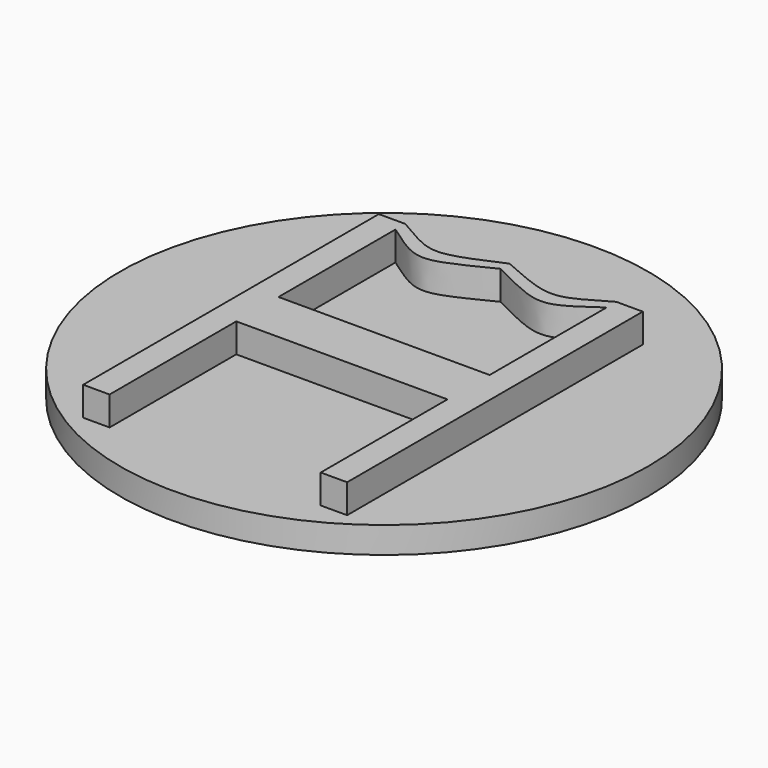
from build123d import *

# Parameters (mm, degrees)
F1_DEPTH = 0.625
F0_R     = 12.5
F0_W     = 1.25
F0_H     = 7.5
F2_DEPTH = 2


with BuildPart() as f1:
    # F0 (on Top) → F1 (new body, symmetric)
    with BuildSketch(Plane.XY):
        with BuildLine():
            Line((-5, 6.9237351418), (-5, 0))
            Line((-5, 0), (5, 0))
            Line((5, 0), (5, 6.9237351418))
            add(Edge.make_bspline(
                [(5, 6.9237351418), (2.8915624134, 5.4354998283), (2.8915624134, 5.4349666461), (0, 6.8908487447)],
                knots=[0, 0, 0, 0, 5.0001081503, 5.0001081503, 5.0001081503, 5.0001081503], degree=3))
            add(Edge.make_bspline(
                [(-5, 6.9237351418), (-2.8915624134, 5.4354998283), (-2.8915624134, 5.4349666461), (0, 6.8908487447)],
                knots=[0, 0, 0, 0, 5.0001081503, 5.0001081503, 5.0001081503, 5.0001081503], degree=3))
        make_face()
    extrude(amount=F1_DEPTH, both=True)


with BuildPart() as f1b:
    # F0 (on Top) → F1, piece 2 (new body, symmetric)
    with BuildSketch(Plane.XY):
        Circle(F0_R)
        with BuildLine():
            Line((5, -2.5), (-5, -2.5))
            Line((-5, -2.5), (-5, -10))
            Line((-5, -10), (-6.25, -10))
            Line((-6.25, -10), (-6.25, -2.5))
            Line((-6.25, -2.5), (-6.25, 0))
            Line((-6.25, 0), (-6.25, 7.5))
            Line((-6.25, 7.5), (-5, 7.5))
            add(Edge.make_bspline(
                [(-5, 7.5), (-2.8592094313, 6.2499786727), (-2.8592094313, 6.1529199593), (0, 7.4215326458)],
                knots=[0, 0, 0, 0, 5.0006156747, 5.0006156747, 5.0006156747, 5.0006156747], degree=3))
            add(Edge.make_bspline(
                [(5, 7.5), (2.8592094313, 6.2499786727), (2.8592094313, 6.1529199593), (0, 7.4215326458)],
                knots=[0, 0, 0, 0, 5.0006156747, 5.0006156747, 5.0006156747, 5.0006156747], degree=3))
            Line((5, 7.5), (6.25, 7.5))
            Line((6.25, 7.5), (6.25, 0))
            Line((6.25, 0), (6.25, -2.5))
            Line((6.25, -2.5), (6.25, -10))
            Line((6.25, -10), (5, -10))
            Line((5, -10), (5, -2.5))
        make_face(mode=Mode.SUBTRACT)
    extrude(amount=F1_DEPTH, both=True)


with BuildPart() as f2:
    # F0 (on Top) → F2 (new body)
    with BuildSketch(Plane.XY):
        with Locations((-5.625, -6.25)):
            Rectangle(F0_W, F0_H)
        Polygon((-6.25, -2.5), (-5, -2.5), (5, -2.5), (6.25, -2.5), (6.25, 0), (5, 0), (-5, 0), (-6.25, 0), align=None)
        Polygon((-6.25, 7.5), (-6.25, 0), (-5, 0), (-5, 6.9237351418), (-5, 7.5), align=None)
        with BuildLine():
            Line((-5, 7.5), (-5, 6.9237351418))
            add(Edge.make_bspline(
                [(-5, 6.9237351418), (-2.8915624134, 5.4354998283), (-2.8915624134, 5.4349666461), (0, 6.8908487447)],
                knots=[0, 0, 0, 0, 5.0001081503, 5.0001081503, 5.0001081503, 5.0001081503], degree=3))
            add(Edge.make_bspline(
                [(5, 6.9237351418), (2.8915624134, 5.4354998283), (2.8915624134, 5.4349666461), (0, 6.8908487447)],
                knots=[0, 0, 0, 0, 5.0001081503, 5.0001081503, 5.0001081503, 5.0001081503], degree=3))
            Line((5, 6.9237351418), (5, 7.5))
            add(Edge.make_bspline(
                [(5, 7.5), (2.8592094313, 6.2499786727), (2.8592094313, 6.1529199593), (0, 7.4215326458)],
                knots=[0, 0, 0, 0, 5.0006156747, 5.0006156747, 5.0006156747, 5.0006156747], degree=3))
            add(Edge.make_bspline(
                [(-5, 7.5), (-2.8592094313, 6.2499786727), (-2.8592094313, 6.1529199593), (0, 7.4215326458)],
                knots=[0, 0, 0, 0, 5.0006156747, 5.0006156747, 5.0006156747, 5.0006156747], degree=3))
        make_face()
        Polygon((5, 0), (6.25, 0), (6.25, 7.5), (5, 7.5), (5, 6.9237351418), align=None)
        with Locations((5.625, -6.25)):
            Rectangle(F0_W, F0_H)
    extrude(amount=F2_DEPTH)


with BuildPart() as f3_1:
    # F3: copy of F1b
    add(f1b.part.moved(Location((30, 0, 0))))


solid = Compound([f1.part, f1b.part, f2.part])
